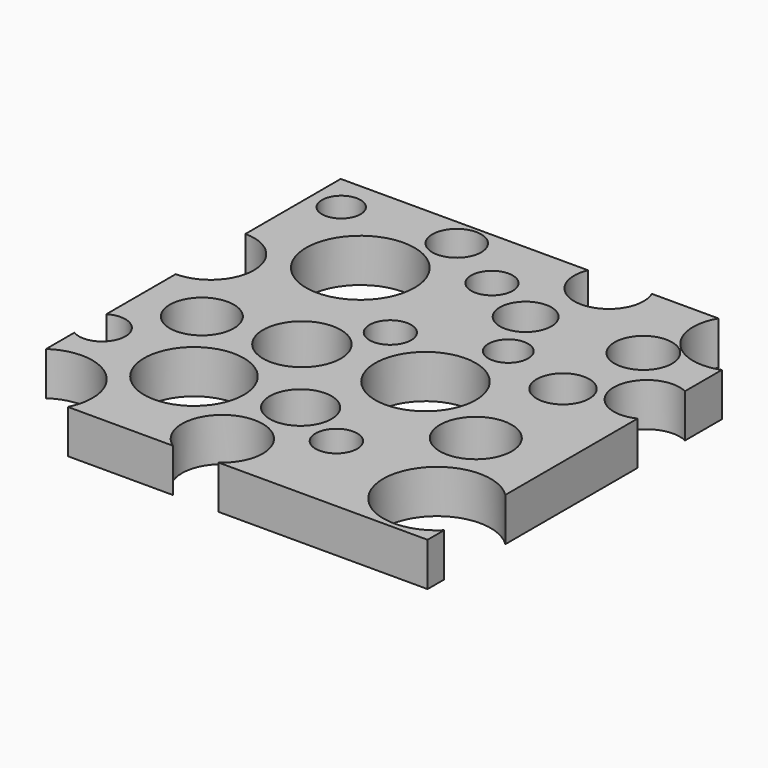
from build123d import *

# Parameters (mm, degrees)
F0_R     = 5.624793
F0_R_2   = 8.743876
F0_R_3   = 6.820271
F0_R_4   = 3.661746
F0_R_5   = 5.429622
F0_R_6   = 8.809277
F0_R_7   = 6.306028
F0_R_8   = 3.649185
F0_R_9   = 9.51591
F0_R_10  = 3.388182
F0_R_11  = 3.649186
F0_R_12  = 4.291104
F0_R_13  = 3.488347
F0_R_14  = 4.625832
F0_R_15  = 4.5204
F0_R_16  = 5.057367
F1_DEPTH = 7.62


with BuildPart() as f1:
    # F0 (on Top) → F1 (new body)
    with BuildSketch(Plane.XY):
        with BuildLine():
            ThreePointArc((38.1, 26.47022), (28.9765, 28.732993), (28.190642, 38.1))
            Line((28.190642, 38.1), (16.499434, 38.1))
            ThreePointArc((16.499434, 38.1), (16.874, 36.915099), (17.000607, 35.678871))
            ThreePointArc((17.000607, 35.678871), (9.665649, 29.706748), (5.304319, 38.1))
            Line((5.304319, 38.1), (-38.1, 38.1))
            Line((-38.1, 38.1), (-38.1, 17.180183))
            ThreePointArc((-38.1, 17.180183), (-32.694602, 14.941194), (-30.455614, 9.535796))
            ThreePointArc((-30.455614, 9.535796), (-32.694602, 4.130398), (-38.1, 1.89141))
            Line((-38.1, 1.89141), (-38.1, -13.310762))
            ThreePointArc((-38.1, -13.310762), (-34.005794, -13.280793), (-31.949991, -16.821569))
            ThreePointArc((-31.949991, -16.821569), (-34.005794, -20.362345), (-38.1, -20.332376))
            Line((-38.1, -20.332376), (-38.1, -26.536592))
            ThreePointArc((-38.1, -26.536592), (-28.827146, -26.010312), (-24.032091, -33.964571))
            ThreePointArc((-24.032091, -33.964571), (-24.287465, -36.092705), (-25.039087, -38.1))
            Line((-25.039087, -38.1), (-6.594518, -38.1))
            ThreePointArc((-6.594518, -38.1), (-5.905659, -25.985243), (4.486227, -32.25027))
            ThreePointArc((4.486227, -32.25027), (3.666791, -35.557694), (1.398047, -38.1))
            Line((1.398047, -38.1), (38.1, -38.1))
            Line((38.1, -38.1), (38.1, -34.461013))
            ThreePointArc((38.1, -34.461013), (22.042395, -27.750231), (38.1, -21.039449))
            Line((38.1, -21.039449), (38.1, 7.983235))
            ThreePointArc((38.1, 7.983235), (29.755205, 13.178684), (38.1, 18.374132))
            Line((38.1, 18.374132), (38.1, 26.47022))
        make_face()
        with Locations((-27.455587, -5.678618)):
            Circle(F0_R, mode=Mode.SUBTRACT)
        with Locations((-17.169787, -20.250168)):
            Circle(F0_R_2, mode=Mode.SUBTRACT)
        with Locations((-11.598311, -3.535743)):
            Circle(F0_R_3, mode=Mode.SUBTRACT)
        with Locations((10.044727, -23.035906)):
            Circle(F0_R_4, mode=Mode.SUBTRACT)
        with Locations((0, -18.321581)):
            Circle(F0_R_5, mode=Mode.SUBTRACT)
        with Locations((8.544715, -1.607155)):
            Circle(F0_R_6, mode=Mode.SUBTRACT)
        with Locations((24.401991, -10.392943)):
            Circle(F0_R_7, mode=Mode.SUBTRACT)
        with Locations((-4.312536, 6.750058)):
            Circle(F0_R_8, mode=Mode.SUBTRACT)
        with Locations((-19.526949, 19.178735)):
            Circle(F0_R_9, mode=Mode.SUBTRACT)
        with Locations((-32.812774, 31.607412)):
            Circle(F0_R_10, mode=Mode.SUBTRACT)
        with Locations((-2.598236, 26.893085)):
            Circle(F0_R_11, mode=Mode.SUBTRACT)
        with Locations((-13.741186, 33.107422)):
            Circle(F0_R_12, mode=Mode.SUBTRACT)
        with Locations((11.759028, 12.535821)):
            Circle(F0_R_13, mode=Mode.SUBTRACT)
        with Locations((24.616279, 8.464358)):
            Circle(F0_R_14, mode=Mode.SUBTRACT)
        with Locations((7.25899, 21.964472)):
            Circle(F0_R_15, mode=Mode.SUBTRACT)
        with Locations((26.544867, 23.678772)):
            Circle(F0_R_16, mode=Mode.SUBTRACT)
    extrude(amount=F1_DEPTH)


solid = f1.part
